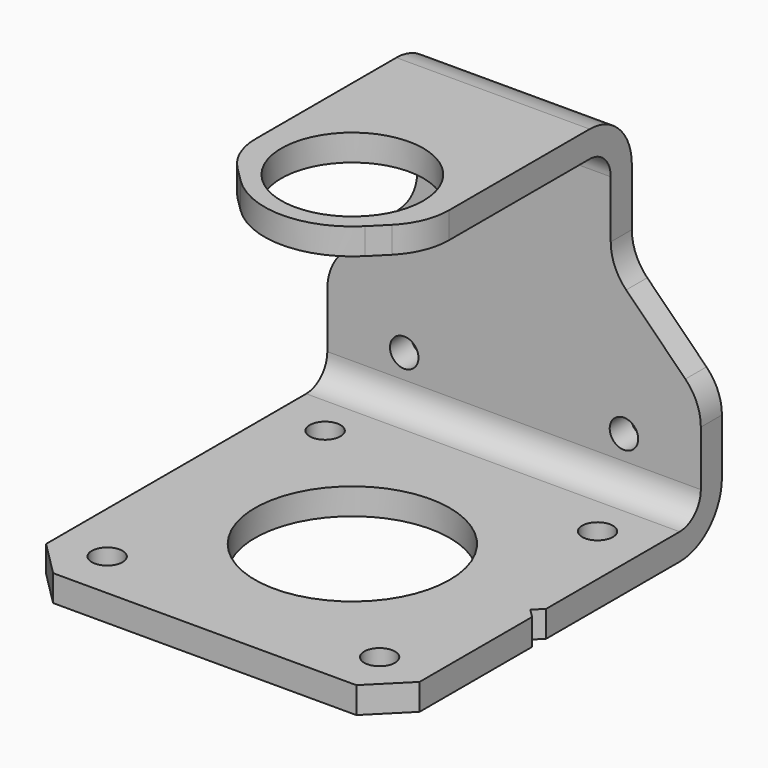
from build123d import *

# Parameters (mm, degrees)
SKETCH_R     = 11.08
SKETCH_R_2   = 1.75
PAD_DEPTH    = 3
CHAMFER_SIZE = 4
SKETCH001_R  = 1.62
PAD001_DEPTH = 3
SKETCH002_R  = 8.08
PAD002_DEPTH = 3
FILLET_R     = 6
FILLET001_R  = 3


with BuildPart() as part:
    # Sketch → Pad (new body)
    with BuildSketch(Plane.XY):
        Polygon((-21.25, 23.5), (21.25, 23.5), (21.25, -1.502979), (20.252979, -2.5), (21.25, -3.497021), (21.25, -23.5), (-21.25, -23.5), align=None)
        with Locations((0, -2.5)):
            Circle(SKETCH_R, mode=Mode.SUBTRACT)
        with Locations((-15.5, -18)):
            Circle(SKETCH_R_2, mode=Mode.SUBTRACT)
        with Locations((15.5, -18)):
            Circle(SKETCH_R_2, mode=Mode.SUBTRACT)
        with Locations((-15.5, 13)):
            Circle(SKETCH_R_2, mode=Mode.SUBTRACT)
        with Locations((15.5, 13)):
            Circle(SKETCH_R_2, mode=Mode.SUBTRACT)
    extrude(amount=PAD_DEPTH)

    # Chamfer
    chamfer_edges = [part.edges().sort_by_distance(p)[0] for p in [
        (21.25, -23.5, 1.5),
        (-21.25, -23.5, 1.5),
    ]]
    chamfer(chamfer_edges, length=CHAMFER_SIZE)

    # Sketch001 → Pad001 (new body)
    with BuildSketch(Plane(origin=(0, 23.5, 0), x_dir=(-1, 0, 0), z_dir=(0, 1, 0))):
        with BuildLine():
            Line((-11, 40), (11, 40))
            Line((11, 40), (11, 27.480563))
            ThreePointArc((11, 27.480563), (11.456722, 25.184464), (12.757357, 23.237924))
            Line((12.757357, 23.237924), (19.49264, 16.502641))
            ThreePointArc((21.25, 12.260003), (20.793276, 14.556102), (19.49264, 16.502641))
            Line((21.25, 0), (21.25, 12.260003))
            Line((-21.25, 0), (21.25, 0))
            Line((-21.25, 0), (-21.25, 12.260003))
            ThreePointArc((-19.492619, 16.502662), (-20.793271, 14.556116), (-21.25, 12.260003))
            Line((-19.492619, 16.502662), (-12.757357, 23.237924))
            ThreePointArc((-12.757357, 23.237924), (-11.456722, 25.184464), (-11, 27.480563))
            Line((-11, 40), (-11, 27.480563))
        make_face()
        with Locations((0, 31.25)):
            Circle(SKETCH001_R, mode=Mode.SUBTRACT)
        with Locations((12.5, 8.75)):
            Circle(SKETCH001_R, mode=Mode.SUBTRACT)
        with Locations((-12.5, 8.75)):
            Circle(SKETCH001_R, mode=Mode.SUBTRACT)
    extrude(amount=-PAD001_DEPTH)

    # Sketch002 → Pad002 (new body)
    with BuildSketch(Plane.XY.offset(40)):
        with BuildLine():
            Line((-11, 23.5), (11, 23.5))
            Line((11, 23.5), (11, -2.5))
            ThreePointArc((8.778196, -7.86394), (10.422578, -5.402943), (11, -2.5))
            Line((8.778196, -7.86394), (7.071068, -9.571068))
            ThreePointArc((-7.071068, -9.571068), (0, -12.5), (7.071068, -9.571068))
            Line((-8.778175, -7.863961), (-7.071068, -9.571068))
            ThreePointArc((-11, -2.5), (-10.422566, -5.402955), (-8.778175, -7.863961))
            Line((-11, -2.5), (-11, 23.5))
        make_face()
        with Locations((0, -2.5)):
            Circle(SKETCH002_R, mode=Mode.SUBTRACT)
    extrude(amount=-PAD002_DEPTH)

    # Fillet
    fillet_edges = [part.edges().sort_by_distance(p)[0] for p in [
        (0, 23.5, 0),
        (0, 23.5, 40),
    ]]
    fillet(fillet_edges, radius=FILLET_R)

    # Fillet001
    fillet001_edges = [part.edges().sort_by_distance(p)[0] for p in [
        (0, 20.5, 3),
        (0, 20.5, 37),
    ]]
    fillet(fillet001_edges, radius=FILLET001_R)


solid = part.part
